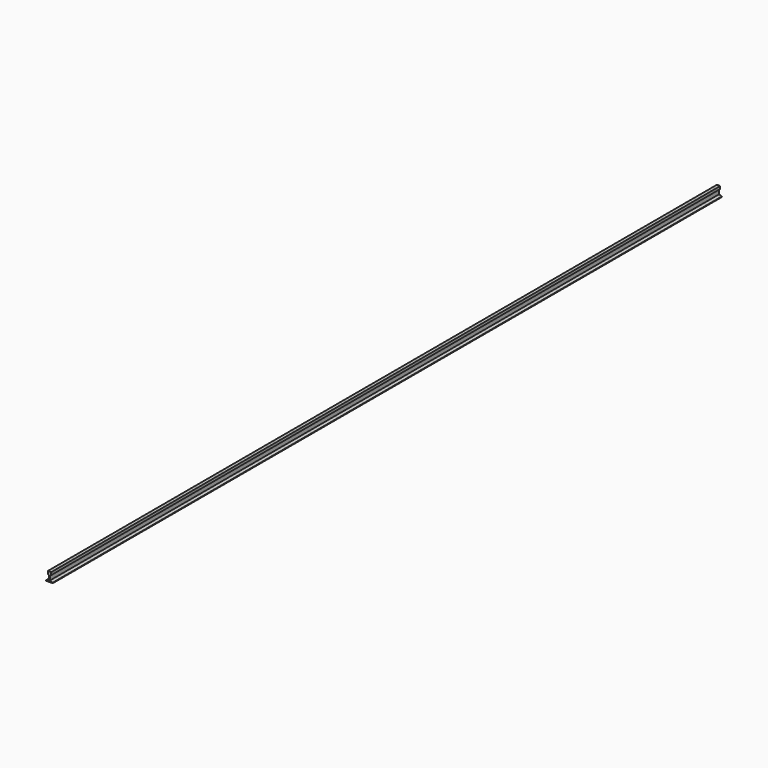
from build123d import *

# Parameters (mm, degrees)
PAD_DEPTH = 87


with BuildPart() as part:
    # Sketch → Pad (new body, symmetric)
    with BuildSketch(Plane.XZ):
        Polygon((-0.345, 1.905), (0.345, 1.905), (0.345, 1.355), (0.1, 1.215), (0.1, 0.3), (0.695, 0.11), (0.695, 0), (-0.695, 0), (-0.695, 0.11), (-0.1, 0.3), (-0.1, 1.215), (-0.345, 1.355), align=None)
    extrude(amount=PAD_DEPTH, both=True)


solid = part.part
